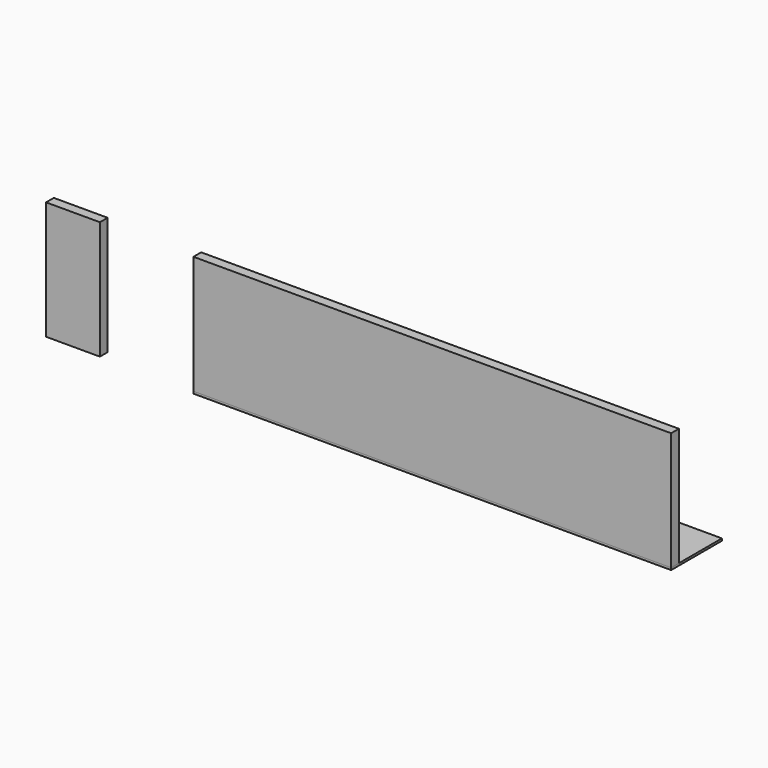
from build123d import *

# Parameters (mm, degrees)
F0_W     = 888
F0_H     = 220
F0_W_2   = 100
F1_DEPTH = 18
F2_W     = 888
F2_H     = 118
F3_DEPTH = 4


with BuildPart() as f1:
    # F0 (on Front) → F1 (new body)
    with BuildSketch(Plane.XZ):
        with Locations((10.817815, -29.220185)):
            Rectangle(F0_W, F0_H)
        with Locations((-657.073033, -29.220185)):
            Rectangle(F0_W_2, F0_H)
    extrude(amount=F1_DEPTH)


with BuildPart() as f3:
    # F2 (on face) → F3 (new body)
    with BuildSketch(Plane(origin=(0, 0, -139.220185), x_dir=(1, 0, 0), z_dir=(0, 0, -1))):
        with Locations((10.817815, -41)):
            Rectangle(F2_W, F2_H)
    extrude(amount=F3_DEPTH)


solid = Compound([f1.part, f3.part])
